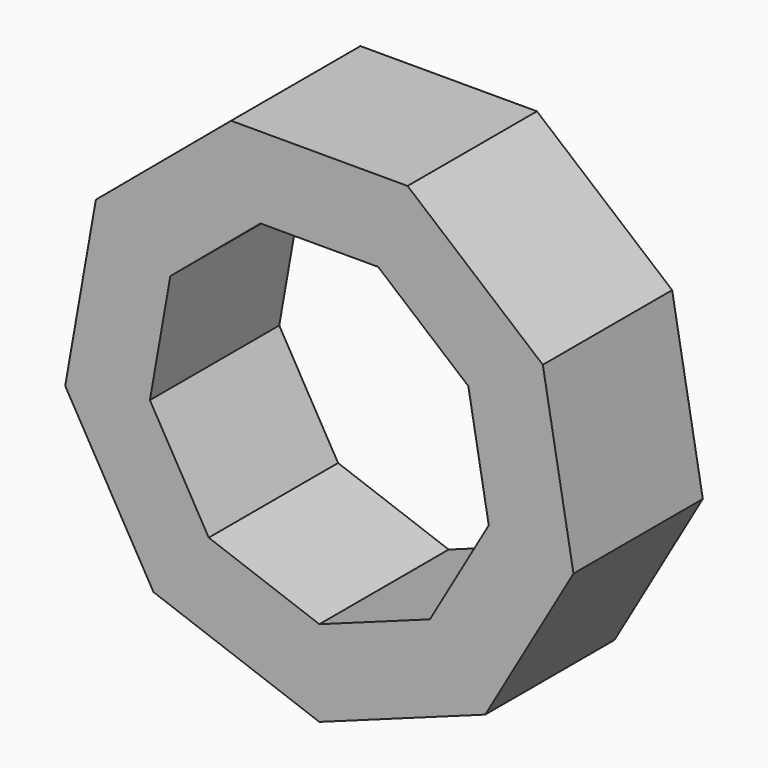
from build123d import *

# Parameters (mm, degrees)
F1_DEPTH = 25.4


with BuildPart() as f1:
    # F0 (on Front) → F1 (new body)
    with BuildSketch(Plane.XZ):
        Polygon((13.867266, 38.1), (0, 38.1), (-13.867266, 38.1), (-35.11315, 20.272587), (-39.929201, -7.040595), (-26.061935, -31.059405), (0, -40.545173), (26.061935, -31.059405), (39.929201, -7.040595), (35.11315, 20.272587), align=None)
        Polygon((-9.244844, 25.4), (0, 25.4), (9.244844, 25.4), (23.408767, 13.515058), (26.619467, -4.69373), (17.374623, -20.70627), (0, -27.030115), (-17.374623, -20.70627), (-26.619467, -4.69373), (-23.408767, 13.515058), align=None, mode=Mode.SUBTRACT)
    extrude(amount=F1_DEPTH)


solid = f1.part
